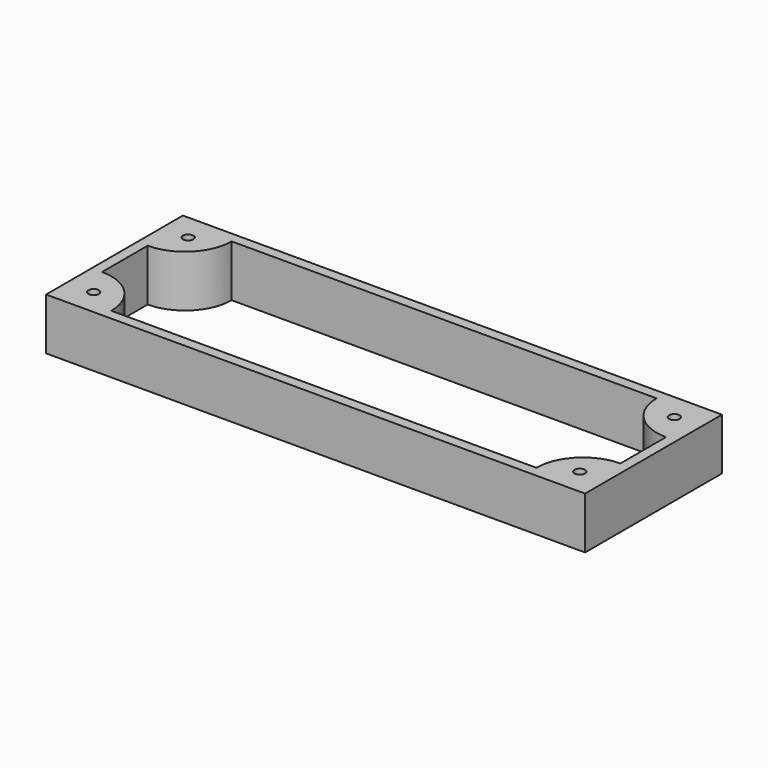
from build123d import *

# Parameters (mm, degrees)
SKETCH_W     = 104
SKETCH_H     = 33
SKETCH_R     = 1
PAD_DEPTH    = 2
PAD001_DEPTH = 10


with BuildPart() as part:
    # Sketch → Pad (new body)
    with BuildSketch(Plane.XY):
        Rectangle(SKETCH_W, SKETCH_H)
        with Locations((46.9, -11.4)):
            Circle(SKETCH_R, mode=Mode.SUBTRACT)
        with Locations((-46.9, -11.4)):
            Circle(SKETCH_R, mode=Mode.SUBTRACT)
        with Locations((-46.9, 11.4)):
            Circle(SKETCH_R, mode=Mode.SUBTRACT)
        with Locations((46.9, 11.4)):
            Circle(SKETCH_R, mode=Mode.SUBTRACT)
        with BuildLine():
            ThreePointArc((-50, 5.5), (-43.636039, 8.136039), (-41, 14.5))
            Line((41, 14.5), (-41, 14.5))
            ThreePointArc((41, 14.5), (43.636039, 8.136039), (50, 5.5))
            Line((50, -5.5), (50, 5.5))
            ThreePointArc((50, -5.5), (43.636039, -8.136039), (41, -14.5))
            Line((-41, -14.5), (41, -14.5))
            ThreePointArc((-41, -14.5), (-43.636039, -8.136039), (-50, -5.5))
            Line((-50, 5.5), (-50, -5.5))
        make_face(mode=Mode.SUBTRACT)
    extrude(amount=PAD_DEPTH)

    # Sketch → Pad001 (join)
    with BuildSketch(Plane.XY):
        Rectangle(SKETCH_W, SKETCH_H)
        with Locations((46.9, -11.4)):
            Circle(SKETCH_R, mode=Mode.SUBTRACT)
        with Locations((-46.9, -11.4)):
            Circle(SKETCH_R, mode=Mode.SUBTRACT)
        with Locations((-46.9, 11.4)):
            Circle(SKETCH_R, mode=Mode.SUBTRACT)
        with Locations((46.9, 11.4)):
            Circle(SKETCH_R, mode=Mode.SUBTRACT)
        with BuildLine():
            ThreePointArc((-50, 5.5), (-43.636039, 8.136039), (-41, 14.5))
            Line((41, 14.5), (-41, 14.5))
            ThreePointArc((41, 14.5), (43.636039, 8.136039), (50, 5.5))
            Line((50, -5.5), (50, 5.5))
            ThreePointArc((50, -5.5), (43.636039, -8.136039), (41, -14.5))
            Line((-41, -14.5), (41, -14.5))
            ThreePointArc((-41, -14.5), (-43.636039, -8.136039), (-50, -5.5))
            Line((-50, 5.5), (-50, -5.5))
        make_face(mode=Mode.SUBTRACT)
    extrude(amount=PAD001_DEPTH)


solid = part.part
